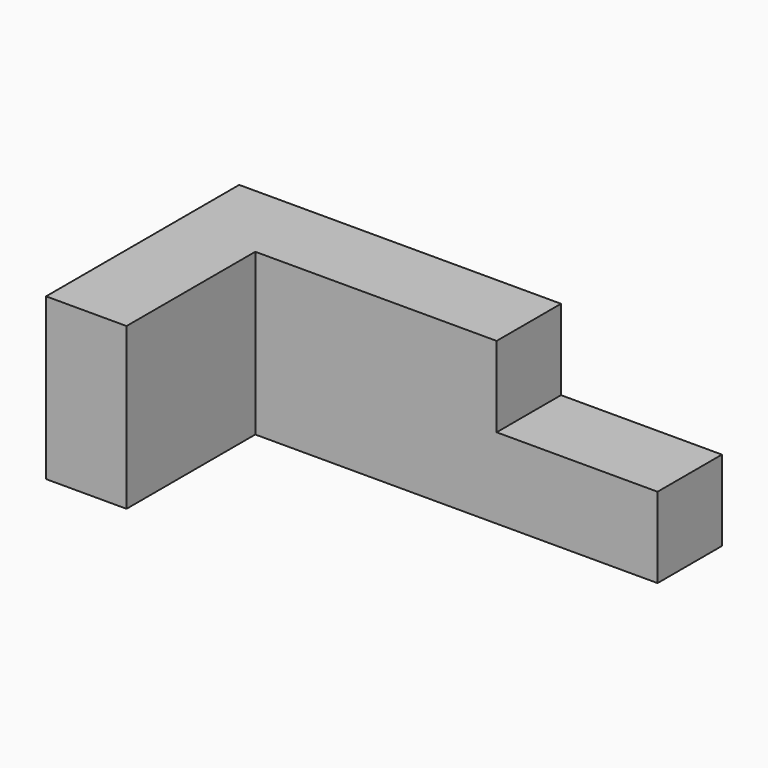
from build123d import *

# Parameters (mm, degrees)
F0_W     = 152.4
F0_H     = 50.8
F1_DEPTH = 76.2
F2_W     = 127
F2_H     = 50.8
F3_DEPTH = 50.8
F4_W     = 50.8
F4_H     = 25.4
F5_DEPTH = 76.2


with BuildPart() as f1:
    # F0 (on Front) → F1 (new body)
    with BuildSketch(Plane.XZ):
        with Locations((76.2, 25.4)):
            Rectangle(F0_W, F0_H)
    extrude(amount=-F1_DEPTH)

    # F2 (on Front) → F3 (cut)
    with BuildSketch(Plane.XZ):
        with Locations((88.9, 25.4)):
            Rectangle(F2_W, F2_H)
    extrude(amount=-F3_DEPTH, mode=Mode.SUBTRACT)

    # F4 (on Front) → F5 (cut)
    with BuildSketch(Plane.XZ):
        with Locations((127, 38.1)):
            Rectangle(F4_W, F4_H)
    extrude(amount=-F5_DEPTH, mode=Mode.SUBTRACT)


solid = f1.part
